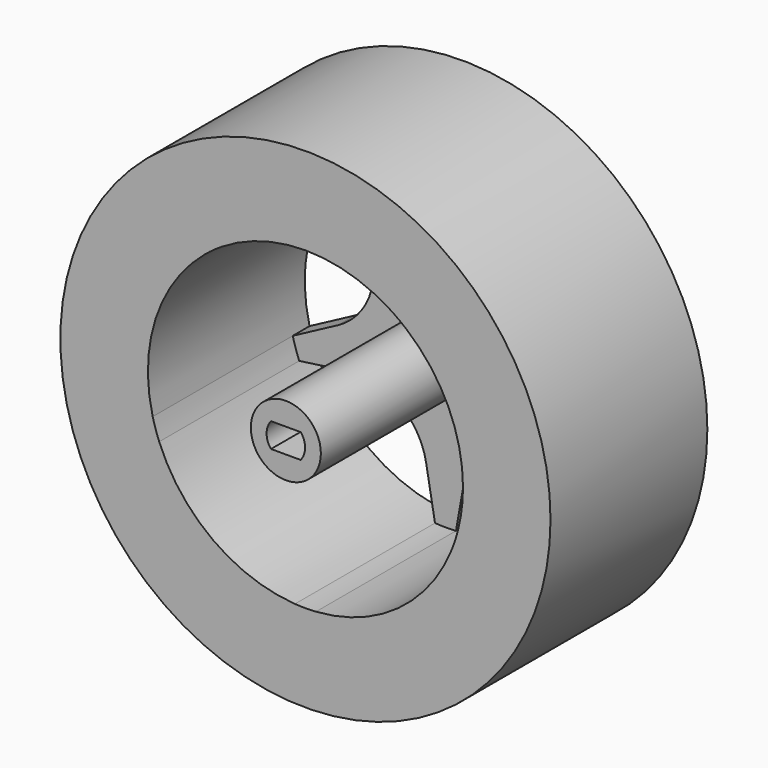
from build123d import *

# Parameters (mm, degrees)
F0_R     = 8.75
F1_DEPTH = 3
F0_R_2   = 35
F2_DEPTH = 28
F3_R     = 5
F4_DEPTH = 28.5


with BuildPart() as f1:
    # F0 (on Front) → F1 (new body)
    with BuildSketch(Plane.XZ):
        with BuildLine():
            Line((11.2055757109, 10.7121584512), (14.409271678, 17.2807085997))
            ThreePointArc((14.409271678, 17.2807085997), (13.2255061098, 18.2026368458), (11.9829277906, 19.043619445))
            Line((11.9829277906, 19.043619445), (6.7263225873, 13.9673748066))
            ThreePointArc((6.7263225873, 13.9673748066), (0.0005839076, 11.2499999919), (-6.7251547721, 13.9673748066))
            Line((-6.7251547721, 13.9673748066), (-11.9822206949, 19.0440643566))
            ThreePointArc((-11.9822206949, 19.0440643566), (-13.2248302388, 18.2031278948), (-14.4086300373, 17.2812436025))
            Line((-14.4086300373, 17.2812436025), (-11.2052148362, 10.7132691094))
            ThreePointArc((-11.2052148362, 10.7132691094), (-10.6992053632, 3.4769965133), (-15.3619499397, -2.0798460871))
            Line((-15.3619499397, -2.0798460871), (-21.8146913282, -5.5108295434))
            ThreePointArc((-21.8146913282, -5.5108295434), (-21.3989006928, -6.9524851052), (-20.887950885, -8.3632235308))
            Line((-20.887950885, -8.3632235308), (-13.6515262074, -7.3462103663))
            ThreePointArc((-13.6515262074, -7.3462103663), (-6.6130564747, -9.1010979679), (-2.7690524241, -15.2527903798))
            Line((-2.7690524241, -15.2527903798), (-1.5, -22.4499443206))
            ThreePointArc((-1.5, -22.4499443206), (-0.0004177112, -22.4999999961), (1.4991664351, -22.45))
            Line((1.4991664351, -22.45), (2.7681076417, -15.2534768043))
            ThreePointArc((2.7681076417, -15.2534768043), (6.6121116923, -9.1017843924), (13.650581425, -7.3468967909))
            Line((13.650581425, -7.3468967909), (20.887640345, -8.3639990923))
            ThreePointArc((20.887640345, -8.3639990923), (21.3986425331, -6.9532796392), (21.8144866967, -5.5116395166))
            Line((21.8144866967, -5.5116395166), (15.3623108145, -2.0809567454))
            ThreePointArc((15.3623108145, -2.0809567454), (10.6995662379, 3.4758858551), (11.2055757109, 10.7121584512))
        make_face()
        Circle(F0_R, mode=Mode.SUBTRACT)
        Circle(F0_R)
        Polygon((-3.4579752893, 1.1235642806), (0, 3.635930389), (3.4579752893, 1.1235642806), (2.137146261, -2.9415294751), (-2.137146261, -2.9415294751), align=None, mode=Mode.SUBTRACT)
        Polygon((3.4579752893, 1.1235642806), (0, 3.635930389), (-3.4579752893, 1.1235642806), (-2.137146261, -2.9415294751), (2.137146261, -2.9415294751), align=None)
    extrude(amount=F1_DEPTH)

    # F0 (on Front) → F2 (join)
    with BuildSketch(Plane.XZ):
        Circle(F0_R_2)
        with BuildLine():
            ThreePointArc((14.409271678, 17.2807085997), (20.3771761139, 9.540476593), (22.5, 0))
            ThreePointArc((22.5, 0), (22.3279639765, -2.7770532337), (21.8144866967, -5.5116395166))
            ThreePointArc((21.8144866967, -5.5116395166), (21.3986425331, -6.9532796392), (20.887640345, -8.3639990923))
            ThreePointArc((20.887640345, -8.3639990923), (13.2248302388, -18.2031278948), (1.4991664351, -22.45))
            ThreePointArc((1.4991664351, -22.45), (-0.0004177112, -22.4999999961), (-1.5, -22.4499443206))
            ThreePointArc((-1.5, -22.4499443206), (-13.2255061098, -18.2026368458), (-20.887950885, -8.3632235308))
            ThreePointArc((-20.887950885, -8.3632235308), (-21.3989006928, -6.9524851052), (-21.8146913282, -5.5108295434))
            ThreePointArc((-21.8146913282, -5.5108295434), (-21.3986425331, 6.9532796392), (-14.4086300373, 17.2812436025))
            ThreePointArc((-14.4086300373, 17.2812436025), (-13.2248302388, 18.2031278948), (-11.9822206949, 19.0440643566))
            ThreePointArc((-11.9822206949, 19.0440643566), (0.0004177112, 22.4999999961), (11.9829277906, 19.043619445))
            ThreePointArc((11.9829277906, 19.043619445), (13.2255061098, 18.2026368458), (14.409271678, 17.2807085997))
        make_face(mode=Mode.SUBTRACT)
    extrude(amount=F2_DEPTH)

    # F3 (on face) → F4 (join)
    with BuildSketch(Plane.XZ.offset(3)):
        Circle(F3_R)
        with BuildLine():
            ThreePointArc((2.1213203436, 1.75), (2.5880621075, 0.9297497123), (2.75, 0))
            ThreePointArc((2.75, 0), (2.5880621075, -0.9297497123), (2.1213203436, -1.75))
            ThreePointArc((2.1213203436, -1.75), (0, -2.75), (-2.1213203436, -1.75))
            ThreePointArc((-2.1213203436, -1.75), (-2.75, 0), (-2.1213203436, 1.75))
            ThreePointArc((-2.1213203436, 1.75), (0, 2.75), (2.1213203436, 1.75))
        make_face(mode=Mode.SUBTRACT)
        with BuildLine():
            Line((-2.1213203436, 1.75), (2.1213203436, 1.75))
            ThreePointArc((2.1213203436, 1.75), (0, 2.75), (-2.1213203436, 1.75))
        make_face()
        with BuildLine():
            ThreePointArc((-2.1213203436, -1.75), (0, -2.75), (2.1213203436, -1.75))
            Line((2.1213203436, -1.75), (-2.1213203436, -1.75))
        make_face()
    extrude(amount=F4_DEPTH)


solid = f1.part
